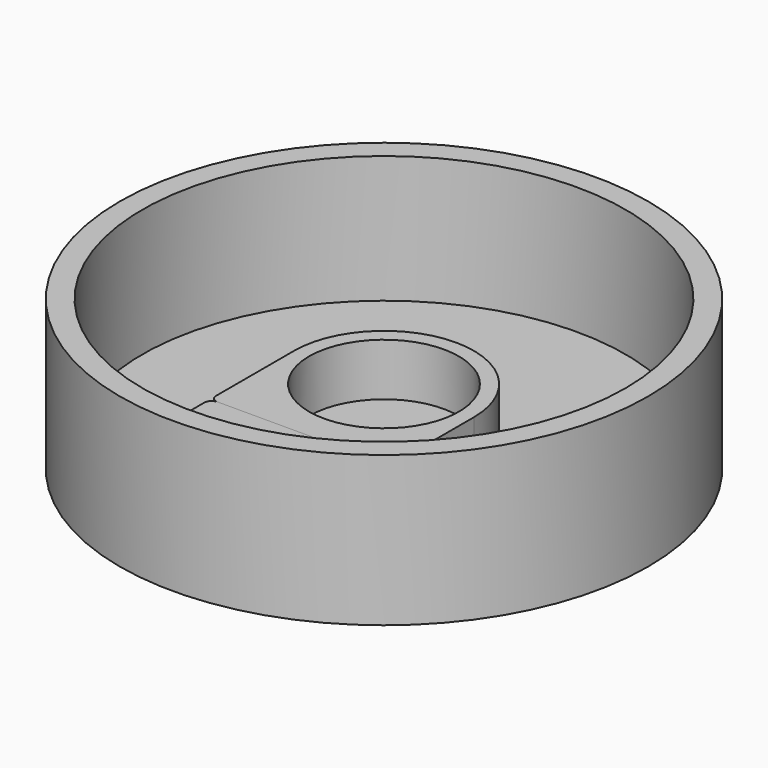
from build123d import *

# Parameters (mm, degrees)
F0_R     = 17.625
F0_R_2   = 16.125
F1_DEPTH = 1.5
F2_DEPTH = 10
F4_DEPTH = 5
F3_W     = 12
F3_H     = 5.3
F5_DEPTH = 5
F6_R     = 0.5
F6_2_R   = 0.5


with BuildPart() as f1:
    # F0 (on Top) → F1 (new body)
    with BuildSketch(Plane.XY):
        Circle(F0_R)
        Circle(F0_R_2, mode=Mode.SUBTRACT)
        Circle(F0_R_2)
    extrude(amount=F1_DEPTH)

    # F0 (on Top) → F2 (join)
    with BuildSketch(Plane.XY):
        Circle(F0_R)
        Circle(F0_R_2, mode=Mode.SUBTRACT)
    extrude(amount=F2_DEPTH)


with BuildPart() as f4:
    # F3 (on Top) → F4 (new body)
    with BuildSketch(Plane.XY):
        with BuildLine():
            Line((6, -7), (6, 0))
            ThreePointArc((6, 0), (0, -6), (-6, 0))
            Line((-6, 0), (-6, -7))
            Line((-6, -7), (6, -7))
        make_face()
        with BuildLine():
            ThreePointArc((-6, 0), (0, -6), (6, 0))
            Line((6, 0), (5, 0))
            ThreePointArc((5, 0), (0, -5), (-5, 0))
            Line((-5, 0), (-6, 0))
        make_face()
        with BuildLine():
            Line((5, 0), (6, 0))
            ThreePointArc((6, 0), (0, 6), (-6, 0))
            Line((-6, 0), (-5, 0))
            ThreePointArc((-5, 0), (0, 5), (5, 0))
        make_face()
        with BuildLine():
            Line((6, -7), (6, 0))
            ThreePointArc((6, 0), (0, -6), (-6, 0))
            Line((-6, 0), (-6, -7))
            Line((-6, -7), (6, -7))
        make_face()
    extrude(amount=F4_DEPTH)

    # F6
    f6_edges = [f4.edges().sort_by_distance(p)[0] for p in [
        (-6, -7, 2.5),
        (6, -7, 2.5),
    ]]
    fillet(f6_edges, radius=F6_R)


with BuildPart() as f5:
    # F3 (on Top) → F5 (new body)
    with BuildSketch(Plane.XY):
        with Locations((0, -9.65)):
            Rectangle(F3_W, F3_H)
    extrude(amount=F5_DEPTH)

    # F6#2
    f6_2_edges = [f5.edges().sort_by_distance(p)[0] for p in [
        (-6, -7, 2.5),
        (6, -7, 2.5),
        (6, -12.3, 2.5),
        (-6, -12.3, 2.5),
    ]]
    fillet(f6_2_edges, radius=F6_2_R)


solid = Compound([f1.part, f4.part, f5.part])
